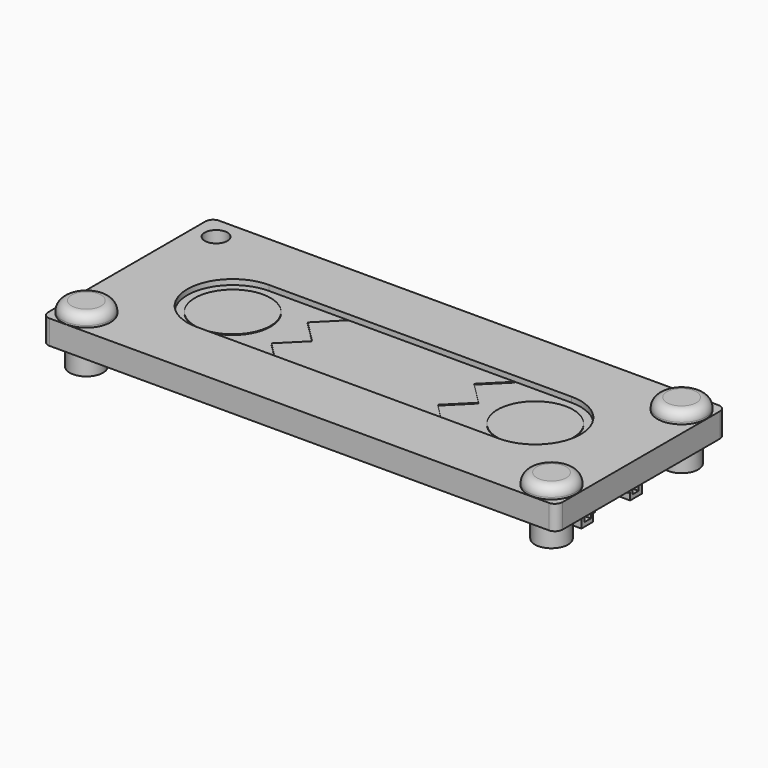
from build123d import *

# Parameters (mm, degrees)
PAD_DEPTH               = 0.8
SKETCH016_R             = 1.15
POCKET_DEPTH            = 0.801
POCKET_DEPTH_BACK       = 0.801
PAD005_DEPTH            = 8.1
POCKET003_DEPTH         = 7
SKETCH010_W             = 6.8
SKETCH010_H             = 5
POCKET004_DEPTH         = 1
SKETCH011_W             = 5.5
SKETCH011_H             = 3
POCKET005_DEPTH         = 3
PAD006_DEPTH            = 4
BODY005_ROLL_ANGLE      = 90
BODY005_PLACEMENT_ANGLE = 90
SKETCH013_R             = 5
PAD007_DEPTH            = 0.1
SKETCH014_R             = 5
PAD008_DEPTH            = 0.1
PAD009_DEPTH            = 0.1
PAD010_DEPTH            = 1.6
POCKET006_DEPTH         = 0.9
POCKET007_DEPTH         = 5
SKETCH020_R             = 1.5
POCKET008_DEPTH         = 1.601
POCKET008_DEPTH_BACK    = 1.601
SKETCH021_R             = 1.5
PAD011_DEPTH            = 1.6
SKETCH022_R             = 3.2
PAD012_DEPTH            = 1.5
FILLET_R                = 1.25
SKETCH023_R             = 2.2
PAD013_DEPTH            = 3


with BuildPart() as mainboard:
    # Sketch → Pad (new body, symmetric)
    with BuildSketch(Plane.XY):
        with BuildLine():
            Line((-18, 10), (18, 10))
            ThreePointArc((22, 10), (20, 12), (18, 10))
            Line((22, 10), (30, 10))
            Line((30, 10), (30, 2))
            ThreePointArc((30, 2), (28, 0), (30, -2))
            Line((30, -2), (30, -10))
            Line((22, -10), (30, -10))
            ThreePointArc((18, -10), (20, -12), (22, -10))
            Line((18, -10), (-18, -10))
            ThreePointArc((-22, -10), (-20, -12), (-18, -10))
            Line((-22, -10), (-30, -10))
            Line((-30, -10), (-30, -2))
            ThreePointArc((-30, -2), (-28, 0), (-30, 2))
            Line((-30, 2), (-30, 10))
            Line((-30, 10), (-22, 10))
            ThreePointArc((-18, 10), (-20, 12), (-22, 10))
        make_face()
    extrude(amount=PAD_DEPTH, both=True)

    # Sketch016 → Pocket (cut, two sides)
    with BuildSketch(Plane.XY) as pocket_sk:
        with Locations((-20, 10)):
            Circle(SKETCH016_R)
        with Locations((-20, -10)):
            Circle(SKETCH016_R)
        with Locations((20, 10)):
            Circle(SKETCH016_R)
        with Locations((20, -10)):
            Circle(SKETCH016_R)
    extrude(amount=-POCKET_DEPTH, mode=Mode.SUBTRACT)
    extrude(pocket_sk.sketch, amount=POCKET_DEPTH_BACK, mode=Mode.SUBTRACT)


with BuildPart() as obj1:
    # Sketch008 → Pad005 (new body)
    with BuildSketch(Plane.XY):
        Polygon((-5, 0), (-3.05, 0), (-3.05, 1), (3.05, 1), (3.05, 0), (5, 0), (5, 5.1), (-5, 5.1), align=None)
    extrude(amount=PAD005_DEPTH)

    # Sketch009 (on Face10 of Pad005) → Pocket003 (cut)
    with BuildSketch(Plane.XY.offset(8.1)):
        Polygon((-4.45, 0.55), (-3.45, 0.55), (-3.45, 1.55), (3.45, 1.55), (3.45, 0.55), (4.45, 0.55), (4.45, 4.55), (-4.45, 4.55), align=None)
    extrude(amount=-POCKET003_DEPTH, mode=Mode.SUBTRACT)

    # Sketch010 (on Face5 of Pocket003) → Pocket004 (cut)
    with BuildSketch(Plane.XY.offset(8.1)):
        with Locations((0, 5.5)):
            Rectangle(SKETCH010_W, SKETCH010_H)
    extrude(amount=-POCKET004_DEPTH, mode=Mode.SUBTRACT)

    # Sketch011 (on Face5 of Pocket004) → Pocket005 (cut)
    with BuildSketch(Plane.XY.offset(8.1)):
        with Locations((0, 1.5)):
            Rectangle(SKETCH011_W, SKETCH011_H)
    extrude(amount=-POCKET005_DEPTH, mode=Mode.SUBTRACT)

    # Sketch012 (on Face26 of Pocket005) → Pad006 (join)
    with BuildSketch(Plane.XY.offset(1.1)):
        with BuildLine():
            ThreePointArc((-3.4, 3.25), (-3.65, 3), (-3.4, 2.75))
            Line((-3.4, 2.75), (3.4, 2.75))
            ThreePointArc((3.4, 2.75), (3.65, 3), (3.4, 3.25))
            Line((-3.4, 3.25), (3.4, 3.25))
        make_face()
    extrude(amount=PAD006_DEPTH)


with BuildPart() as obj1_1:
    # Body005 roll: moved
    add(obj1.part.rotate(Axis((0, 0, 0), (1, 0, 0)), BODY005_ROLL_ANGLE))


with BuildPart() as obj1_2:
    # Body005 placement: moved
    add(obj1_1.part.moved(Location((22, 0, -6))).rotate(Axis((22, 0, -6), (0, 0, 1)), BODY005_PLACEMENT_ANGLE))


with BuildPart() as button1:
    # Sketch013 (on Face1 of CopyPad001) → Pad007 (new body)
    with BuildSketch(Plane.XY.offset(0.8)):
        with Locations((-20, 0)):
            Circle(SKETCH013_R)
    extrude(amount=PAD007_DEPTH)


with BuildPart() as button2:
    # Sketch014 (on Face1 of CopyPad002) → Pad008 (new body)
    with BuildSketch(Plane.XY.offset(0.8)):
        with Locations((20, 0)):
            Circle(SKETCH014_R)
    extrude(amount=PAD008_DEPTH)


with BuildPart() as buttonslider:
    # Sketch015 (on Face1 of CopyPad004) → Pad009 (new body)
    with BuildSketch(Plane.XY.offset(0.8)):
        Polygon((-9.5, 0), (-12.5, 3), (-9.5, 6), (12.5, 6), (9.5, 3), (12.5, 0), (9.5, -3), (12.5, -6), (-9.5, -6), (-12.5, -3), align=None)
    extrude(amount=PAD009_DEPTH)


with BuildPart() as obj2:
    # Sketch017 → Pad010 (new body, symmetric)
    with BuildSketch(Plane.XY):
        with BuildLine():
            Line((-33, 14), (33, 14))
            ThreePointArc((34, 13), (33.707107, 13.707107), (33, 14))
            Line((34, 13), (34, -13))
            ThreePointArc((33, -14), (33.707107, -13.707107), (34, -13))
            Line((33, -14), (-33, -14))
            ThreePointArc((-34, -13), (-33.707107, -13.707107), (-33, -14))
            Line((-34, -13), (-34, 13))
            ThreePointArc((-33, 14), (-33.707107, 13.707107), (-34, 13))
        make_face()
    extrude(amount=PAD010_DEPTH, both=True)

    # Sketch018 → Pocket006 (cut, symmetric)
    with BuildSketch(Plane.XY):
        with BuildLine():
            Line((-30.5, 1.5), (-30.5, 10.5))
            Line((-30.5, 10.5), (-22.25, 10.5))
            ThreePointArc((-17.75, 10.5), (-20, 12.75), (-22.25, 10.5))
            Line((-17.75, 10.5), (17.75, 10.5))
            ThreePointArc((22.25, 10.5), (20, 12.75), (17.75, 10.5))
            Line((22.25, 10.5), (30.5, 10.5))
            Line((30.5, 10.5), (30.5, 1.5))
            ThreePointArc((30.5, 1.5), (29, 0), (30.5, -1.5))
            Line((30.5, -1.5), (30.5, -10.5))
            Line((30.5, -10.5), (22.25, -10.5))
            ThreePointArc((17.75, -10.5), (20, -12.75), (22.25, -10.5))
            Line((17.75, -10.5), (-17.75, -10.5))
            ThreePointArc((-22.25, -10.5), (-20, -12.75), (-17.75, -10.5))
            Line((-22.25, -10.5), (-30.5, -10.5))
            Line((-30.5, -10.5), (-30.5, -1.5))
            ThreePointArc((-30.5, -1.5), (-29, 0), (-30.5, 1.5))
        make_face()
    extrude(amount=POCKET006_DEPTH, both=True, mode=Mode.SUBTRACT)

    # Sketch019 → Pocket007 (cut)
    with BuildSketch(Plane.XY):
        with BuildLine():
            ThreePointArc((-20, 6), (-26, 0), (-20, -6))
            Line((-20, -6), (20, -6))
            ThreePointArc((20, -6), (26, 0), (20, 6))
            Line((-20, 6), (20, 6))
        make_face()
    extrude(amount=POCKET007_DEPTH, mode=Mode.SUBTRACT)

    # Sketch020 → Pocket008 (cut, two sides)
    with BuildSketch(Plane.XY) as pocket008_sk:
        with Locations((-31, 11)):
            Circle(SKETCH020_R)
        with Locations((31, 11)):
            Circle(SKETCH020_R)
        with Locations((31, -11)):
            Circle(SKETCH020_R)
        with Locations((-31, -11)):
            Circle(SKETCH020_R)
    extrude(amount=-POCKET008_DEPTH, mode=Mode.SUBTRACT)
    extrude(pocket008_sk.sketch, amount=POCKET008_DEPTH_BACK, mode=Mode.SUBTRACT)


with BuildPart() as obj3:
    # Sketch021 → Pad011 (new body, symmetric)
    with BuildSketch(Plane.XY):
        Circle(SKETCH021_R)
    extrude(amount=PAD011_DEPTH, both=True)

    # Sketch022 (on Face3 of Pad011) → Pad012 (join)
    with BuildSketch(Plane.XY.offset(1.6)):
        Circle(SKETCH022_R)
    extrude(amount=PAD012_DEPTH)

    # Fillet
    fillet_edges = [obj3.edges().sort_by_distance(p)[0] for p in [
        (-3.2, 0, 3.1),
    ]]
    fillet(fillet_edges, radius=FILLET_R)

    # Sketch023 (on Face6 of Fillet) → Pad013 (join)
    with BuildSketch(Plane(origin=(0, 0, -1.6), x_dir=(1, 0, 0), z_dir=(0, 0, -1))):
        Circle(SKETCH023_R)
    extrude(amount=PAD013_DEPTH)


with BuildPart() as obj3_1:
    # Body010 placement: moved
    add(obj3.part.moved(Location((-30.75, 10.75, 0))))


with BuildPart() as obj4:
    # Body011 base: copy of obj3
    add(obj3_1.part)


with BuildPart() as obj4_1:
    # Body011 placement: moved
    add(obj4.part.moved(Location((61.5, 0, 0))))


with BuildPart() as obj5:
    # Body012 base: copy of obj3
    add(obj3_1.part)


with BuildPart() as obj5_1:
    # Body012 placement: moved
    add(obj5.part.moved(Location((0, -21.5, 0))))


with BuildPart() as obj6:
    # Body013 base: copy of obj3
    add(obj3_1.part)


with BuildPart() as obj6_1:
    # Body013 placement: moved
    add(obj6.part.moved(Location((61.5, -21.5, 0))))


solid = Compound([mainboard.part, obj1_2.part, button1.part, button2.part, buttonslider.part, obj2.part, obj4_1.part, obj5_1.part, obj6_1.part])
